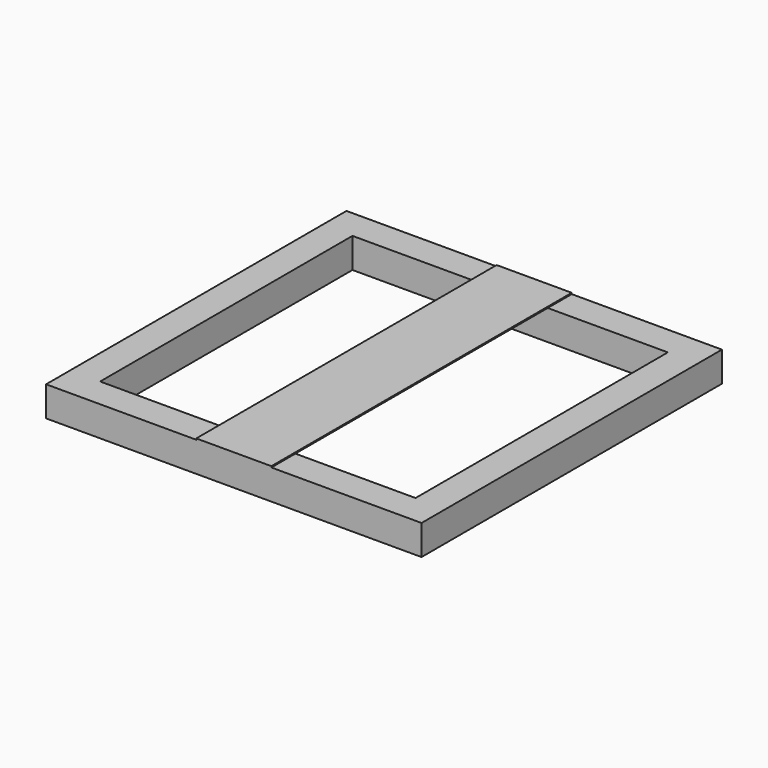
from build123d import *

# Parameters (mm, degrees)
F0_W     = 317.5
F0_H     = 317.5
F0_W_2   = 266.7
F0_H_2   = 266.7
F1_DEPTH = 25.4
F2_W     = 63.5
F2_H     = 317.5
F3_DEPTH = 1


with BuildPart() as f1:
    # F0 (on Top) → F1 (new body)
    with BuildSketch(Plane.XY):
        Rectangle(F0_W, F0_H)
        Rectangle(F0_W_2, F0_H_2, mode=Mode.SUBTRACT)
    extrude(amount=F1_DEPTH)

    # F2 (on face) → F3 (join)
    with BuildSketch(Plane.XY.offset(25.4)):
        Rectangle(F2_W, F2_H)
    extrude(amount=F3_DEPTH)


solid = f1.part
